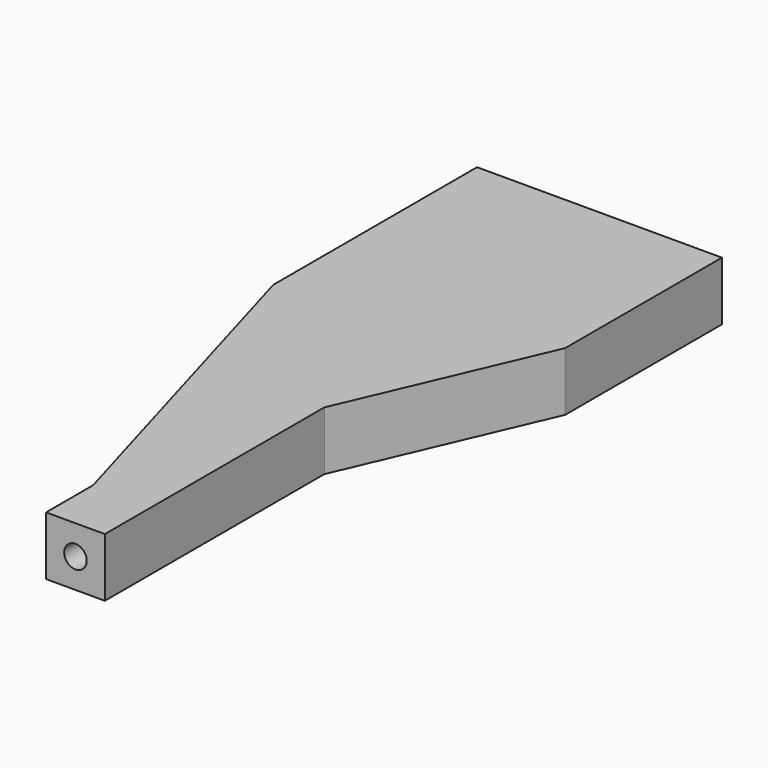
from build123d import *

# Parameters (mm, degrees)
F1_DEPTH = 3.125
F2_R     = 0.6
F3_DEPTH = 5


with BuildPart() as f1:
    # F0 (on Top) → F1 (new body)
    with BuildSketch(Plane.XY):
        Polygon((13.020833, 0), (0, 0), (0, -13.541667), (5.416667, -32.291667), (5.416667, -35.416667), (8.541667, -35.416667), (8.541667, -20.833333), (13.020833, -10.416667), align=None)
    extrude(amount=F1_DEPTH)

    # F2 (on face) → F3 (cut)
    with BuildSketch(Plane.XZ.offset(35.416667)):
        with Locations((6.979167, 1.5625)):
            Circle(F2_R)
    extrude(amount=-F3_DEPTH, mode=Mode.SUBTRACT)


solid = f1.part
